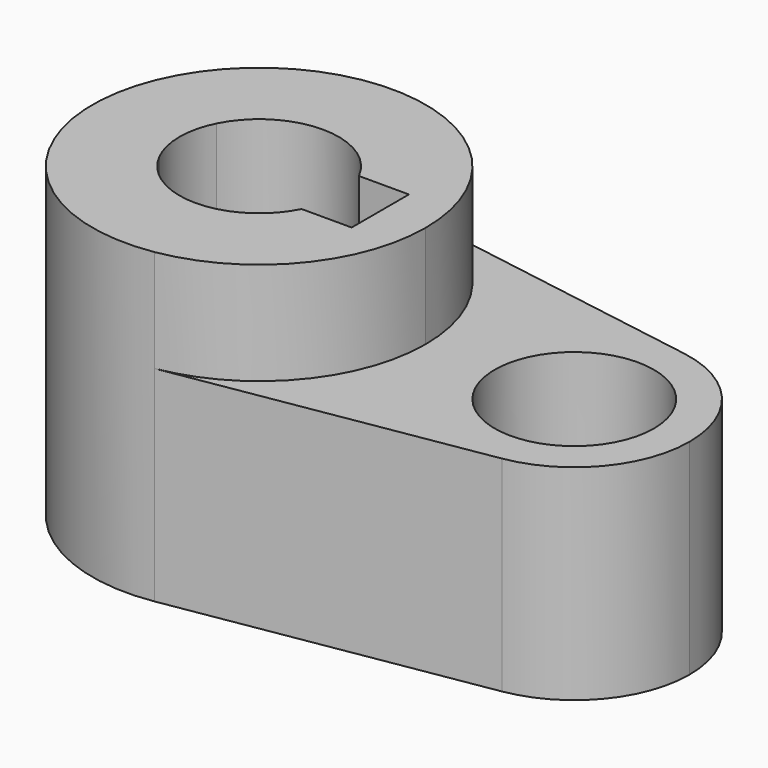
from build123d import *

# Parameters (mm, degrees)
F0_R     = 19.722567
F1_DEPTH = 50.8
F2_DEPTH = 76.2


with BuildPart() as f1:
    # F0 (on Top) → F1 (new body)
    with BuildSketch(Plane.XY):
        with BuildLine():
            ThreePointArc((-17.615917, -8.868996), (-19.722567, 0), (-17.615917, 8.868996))
            Line((-17.615917, 8.868996), (-30.018141, 8.868996))
            Line((-30.018141, 8.868996), (-30.018141, -8.868996))
            Line((-30.018141, -8.868996), (-17.615917, -8.868996))
        make_face()
        with BuildLine():
            ThreePointArc((6.713445, -40.725364), (31.47001, -26.707004), (41.275, 0))
            ThreePointArc((41.275, 0), (31.47001, 26.707004), (6.713445, 40.725364))
            ThreePointArc((6.713445, 40.725364), (-41.275, 0), (6.713445, -40.725364))
        make_face()
        with BuildLine():
            ThreePointArc((-17.615917, 8.868996), (0, 19.722567), (17.615917, 8.868996))
            Line((17.615917, 8.868996), (30.018141, 8.868996))
            Line((30.018141, 8.868996), (30.018141, -8.868996))
            Line((30.018141, -8.868996), (17.615917, -8.868996))
            ThreePointArc((17.615917, -8.868996), (0, -19.722567), (-17.615917, -8.868996))
            Line((-17.615917, -8.868996), (-30.018141, -8.868996))
            Line((-30.018141, -8.868996), (-30.018141, 8.868996))
            Line((-30.018141, 8.868996), (-17.615917, 8.868996))
        make_face(mode=Mode.SUBTRACT)
        with BuildLine():
            ThreePointArc((6.713445, 40.725364), (31.47001, 26.707004), (41.275, 0))
            ThreePointArc((41.275, 0), (31.47001, -26.707004), (6.713445, -40.725364))
            Line((6.713445, -40.725364), (82.728767, -28.194483))
            ThreePointArc((82.728767, -28.194483), (49.505997, 0), (82.728767, 28.194483))
            Line((82.728767, 28.194483), (6.713445, 40.725364))
        make_face()
        with BuildLine():
            ThreePointArc((106.655997, 0), (99.867927, 18.489465), (82.728767, 28.194483))
            ThreePointArc((82.728767, 28.194483), (49.505997, 0), (82.728767, -28.194483))
            ThreePointArc((82.728767, -28.194483), (99.867927, -18.489465), (106.655997, 0))
        make_face()
        with Locations((78.080997, 0)):
            Circle(F0_R, mode=Mode.SUBTRACT)
    extrude(amount=F1_DEPTH)

    # F0 (on Top) → F2 (join)
    with BuildSketch(Plane.XY):
        with BuildLine():
            ThreePointArc((6.713445, -40.725364), (31.47001, -26.707004), (41.275, 0))
            ThreePointArc((41.275, 0), (31.47001, 26.707004), (6.713445, 40.725364))
            ThreePointArc((6.713445, 40.725364), (-41.275, 0), (6.713445, -40.725364))
        make_face()
        with BuildLine():
            ThreePointArc((-17.615917, 8.868996), (0, 19.722567), (17.615917, 8.868996))
            Line((17.615917, 8.868996), (30.018141, 8.868996))
            Line((30.018141, 8.868996), (30.018141, -8.868996))
            Line((30.018141, -8.868996), (17.615917, -8.868996))
            ThreePointArc((17.615917, -8.868996), (0, -19.722567), (-17.615917, -8.868996))
            Line((-17.615917, -8.868996), (-30.018141, -8.868996))
            Line((-30.018141, -8.868996), (-30.018141, 8.868996))
            Line((-30.018141, 8.868996), (-17.615917, 8.868996))
        make_face(mode=Mode.SUBTRACT)
        with BuildLine():
            ThreePointArc((-17.615917, -8.868996), (-19.722567, 0), (-17.615917, 8.868996))
            Line((-17.615917, 8.868996), (-30.018141, 8.868996))
            Line((-30.018141, 8.868996), (-30.018141, -8.868996))
            Line((-30.018141, -8.868996), (-17.615917, -8.868996))
        make_face()
    extrude(amount=F2_DEPTH)


solid = f1.part
